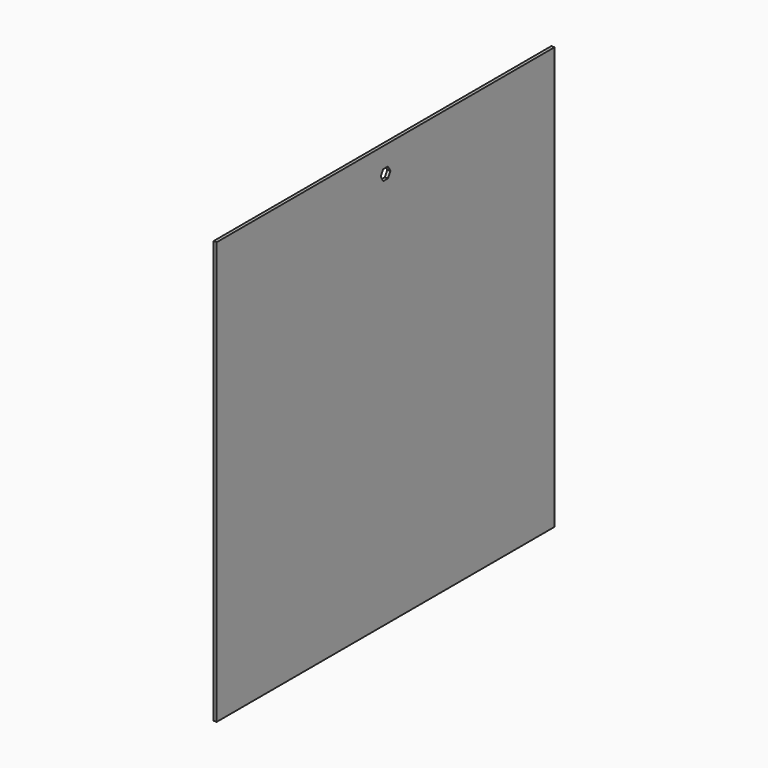
from build123d import *

# Parameters (mm, degrees)
F0_W     = 400
F0_H     = 400
F1_DEPTH = 3
F3_DEPTH = 25


with BuildPart() as f1:
    # F0 (on Right) → F1 (new body)
    with BuildSketch(Plane.YZ):
        Rectangle(F0_W, F0_H)
    extrude(amount=F1_DEPTH)

    # F2 (on face) → F3 (cut)
    with BuildSketch(Plane.YZ.offset(3)):
        Polygon((2.886751, 180.75), (-2.886751, 180.75), (-5.773503, 175.75), (-2.886751, 170.75), (2.886751, 170.75), (5.773503, 175.75), align=None)
    extrude(amount=-F3_DEPTH, mode=Mode.SUBTRACT)


solid = f1.part
